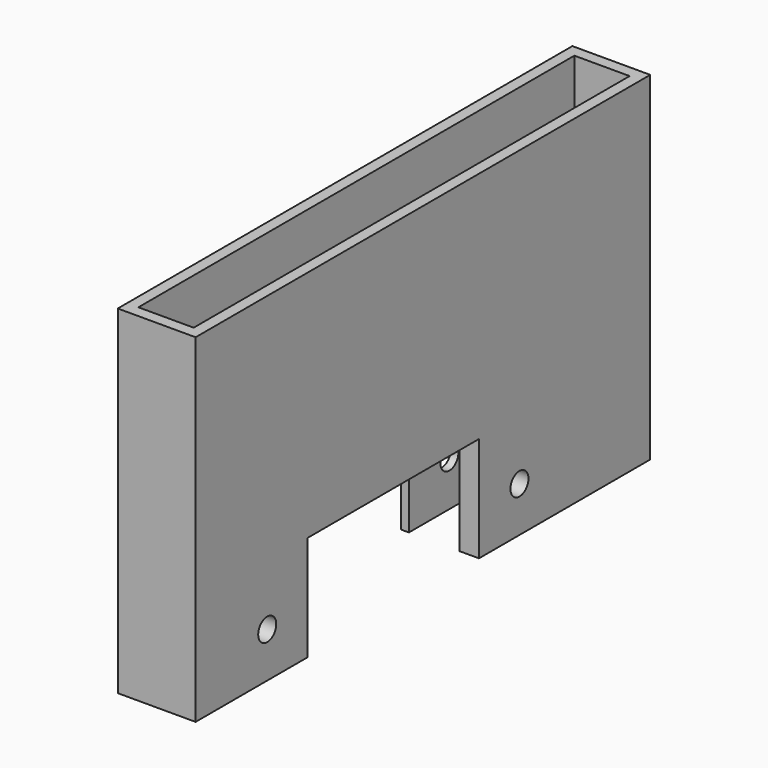
from build123d import *

# Parameters (mm, degrees)
SKETCH_W      = 7.1
SKETCH_H      = 70
SKETCH_W_2    = 4.2
SKETCH_H_2    = 40.5
PAD_DEPTH     = 0.5
SKETCH001_W   = 10
SKETCH001_H   = 73
SKETCH001_W_2 = 7.1
SKETCH001_H_2 = 70
PAD001_DEPTH  = 30
PAD002_DEPTH  = 13.5
SKETCH003_R   = 1.45
HOLE_DEPTH    = 10.001


with BuildPart() as part:
    # Sketch → Pad (new body)
    with BuildSketch(Plane.XY):
        with Locations((-23.097803, 124.895146)):
            Rectangle(SKETCH_W, SKETCH_H)
        with Locations((-23.547803, 120.145146)):
            Rectangle(SKETCH_W_2, SKETCH_H_2, mode=Mode.SUBTRACT)
    extrude(amount=PAD_DEPTH)

    # Sketch001 (on Face9 of Pad) → Pad001 (join)
    with BuildSketch(Plane(origin=(0, 0, 0), x_dir=(1, 0, 0), z_dir=(0, 0, -1))):
        with Locations((-23.097803, -124.895146)):
            Rectangle(SKETCH001_W, SKETCH001_H)
        with Locations((-23.097803, -124.895146)):
            Rectangle(SKETCH001_W_2, SKETCH001_H_2, mode=Mode.SUBTRACT)
    extrude(amount=-PAD001_DEPTH)

    # Sketch002 (on Face15 of Pad001) → Pad002 (join)
    with BuildSketch(Plane(origin=(0, 0, 0), x_dir=(1, 0, 0), z_dir=(0, 0, -1))):
        Polygon((-28.097803, -88.395146), (-28.097803, -96.395146), (-28.097803, -106.395146), (-27.097803, -106.395146), (-27.097803, -96.395146), (-20.597803, -96.395146), (-20.597803, -106.395146), (-18.097803, -106.395146), (-18.097803, -88.395146), align=None)
        Polygon((-28.097803, -161.395146), (-18.097803, -161.395146), (-18.097803, -133.895146), (-20.597803, -133.895146), (-20.597803, -143.895146), (-27.097803, -143.895146), (-27.097803, -133.895146), (-28.097803, -133.895146), (-28.097803, -143.895146), align=None)
    extrude(amount=PAD002_DEPTH)

    # Sketch003 (on Face24 of Pad002) → Hole (cut, through all)
    with BuildSketch(Plane(origin=(-28.097803, 0, 0), x_dir=(0, -1, 0), z_dir=(-1, 0, 0))):
        with Locations((-140.395146, -7.7)):
            Circle(SKETCH003_R)
        with Locations((-99.895146, -7.7)):
            Circle(SKETCH003_R)
    extrude(amount=-HOLE_DEPTH, mode=Mode.SUBTRACT)


solid = part.part
